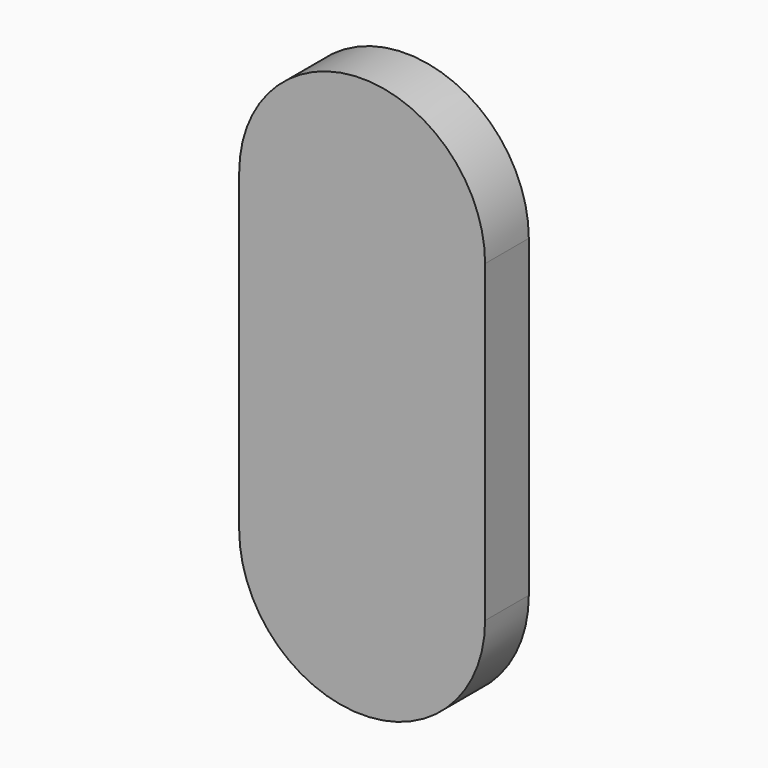
from build123d import *

# Parameters (mm, degrees)
F1_DEPTH = 2


with BuildPart() as f1:
    # F0 (on Front) → F1 (new body)
    with BuildSketch(Plane.XZ):
        with BuildLine():
            ThreePointArc((-4.5, -5.75), (0, -10.25), (4.5, -5.75))
            Line((4.5, -5.75), (-4.5, -5.75))
        make_face()
        with BuildLine():
            ThreePointArc((-4.5, -5.75), (0, -1.25), (4.5, -5.75))
            Line((4.5, -5.75), (4.5, 5.75))
            ThreePointArc((4.5, 5.75), (0, 1.25), (-4.5, 5.75))
            Line((-4.5, 5.75), (-4.5, -5.75))
        make_face()
        with BuildLine():
            Line((-4.5, -5.75), (4.5, -5.75))
            ThreePointArc((4.5, -5.75), (0, -1.25), (-4.5, -5.75))
        make_face()
        with BuildLine():
            ThreePointArc((-4.5, 5.75), (0, 1.25), (4.5, 5.75))
            Line((4.5, 5.75), (-4.5, 5.75))
        make_face()
        with BuildLine():
            Line((-4.5, 5.75), (4.5, 5.75))
            ThreePointArc((4.5, 5.75), (0, 10.25), (-4.5, 5.75))
        make_face()
    extrude(amount=F1_DEPTH)


solid = f1.part
